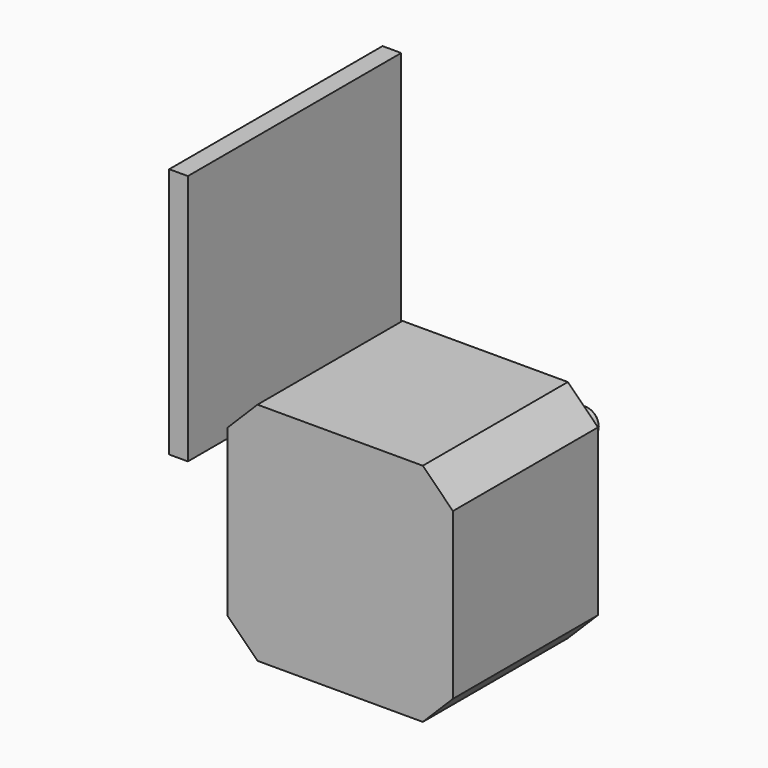
from build123d import *

# Parameters (mm, degrees)
F3_DEPTH  = 34
F4_R      = 2.5
F7_DEPTH  = 24
F8_R      = 11
F9_DEPTH  = 2
F10_SIZE  = 0.5
F15_DEPTH = 25


with BuildPart() as f3:
    # F0 (on Front) → F3 (new body, through all)
    with BuildSketch(Plane.XZ):
        Polygon((21.15, 15.5), (15.5, 21.15), (-15.5, 21.15), (-21.15, 15.5), (-21.15, -15.5), (-15.5, -21.15), (15.5, -21.15), (21.15, -15.5), align=None)
    extrude(amount=F3_DEPTH)

    # F4 (on Front) → F7 (join, through all)
    with BuildSketch(Plane.XZ):
        Circle(F4_R)
    extrude(amount=-F7_DEPTH)

    # F8 (on Front) → F9 (join)
    with BuildSketch(Plane.XZ):
        Circle(F8_R)
    extrude(amount=-F9_DEPTH)

    # F10
    f10_edges = [f3.edges().sort_by_distance(p)[0] for p in [
        (-2.5, 24, 0),
    ]]
    chamfer(f10_edges, length=F10_SIZE)


with BuildPart() as f15:
    # F14 (on Front) → F15 (new body, symmetric)
    with BuildSketch(Plane.XZ):
        with BuildLine():
            Line((-39.25, 3.2808248822), (-39.25, 1.5308248822))
            Line((-39.25, 1.5308248822), (-37.5, 1.5308248822))
            ThreePointArc((-37.5, 1.5308248822), (-38.7374368671, 2.0433880151), (-39.25, 3.2808248822))
        make_face()
        with BuildLine():
            ThreePointArc((-35.75, 3.2808248822), (-36.2625631329, 2.0433880151), (-37.5, 1.5308248822))
            Line((-37.5, 1.5308248822), (-35.75, 1.5308248822))
            Line((-35.75, 1.5308248822), (-35.75, 3.2808248822))
        make_face()
        with BuildLine():
            ThreePointArc((-39.25, 3.2808248822), (-38.7374368671, 2.0433880151), (-37.5, 1.5308248822))
            ThreePointArc((-37.5, 1.5308248822), (-36.2625631329, 2.0433880151), (-35.75, 3.2808248822))
            ThreePointArc((-35.75, 3.2808248822), (-37.5, 5.0308248822), (-39.25, 3.2808248822))
        make_face()
        with BuildLine():
            Line((-39.25, 48.6383336474), (-39.25, 3.2808248822))
            ThreePointArc((-39.25, 3.2808248822), (-37.5, 5.0308248822), (-35.75, 3.2808248822))
            Line((-35.75, 3.2808248822), (-35.75, 48.6383336474))
            Line((-35.75, 48.6383336474), (-39.25, 48.6383336474))
        make_face()
    extrude(amount=F15_DEPTH, both=True)


solid = Compound([f3.part, f15.part])
